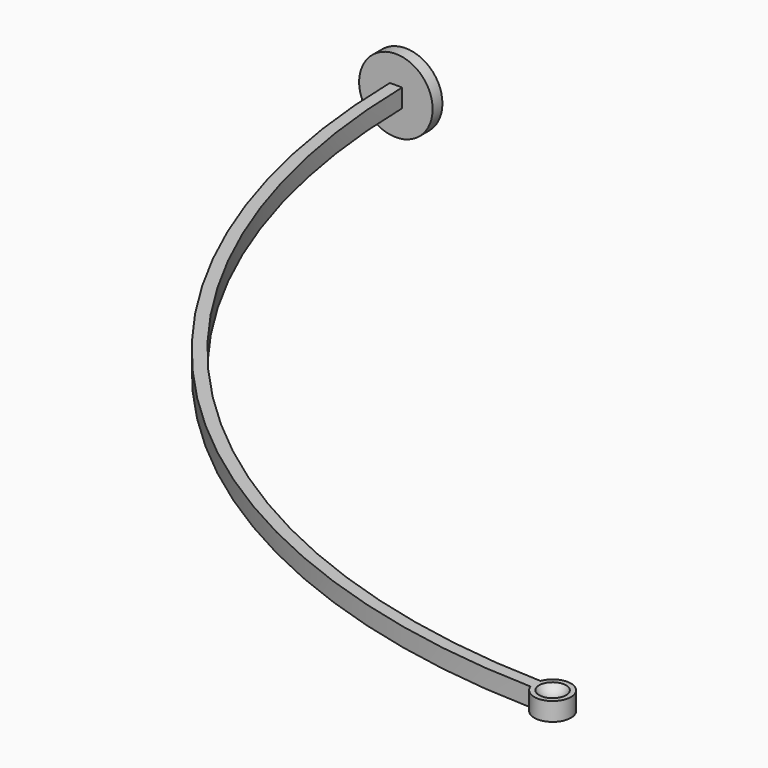
from build123d import *

# Parameters (mm, degrees)
PAD_DEPTH    = 0.375
SKETCH002_R  = 1.5
PAD001_DEPTH = 0.5


with BuildPart() as part:
    # Sketch → Pad (new body, symmetric)
    with BuildSketch(Plane.XY):
        with BuildLine():
            Line((-0.25, 0), (0, 0))
            Line((0, 0), (0.25, 0))
            ThreePointArc((0.25, 0), (8.71609, -20.785997), (29.295895, -29.741667))
            ThreePointArc((29.290002, -30.241667), (30.749948, -30.008839), (29.295895, -29.741667))
            ThreePointArc((-0.25, 0), (8.360454, -21.137467), (29.290002, -30.241667))
        make_face()
    extrude(amount=PAD_DEPTH, both=True)

    # Sketch002 → Pad001 (join)
    with BuildSketch(Plane.XZ):
        Circle(SKETCH002_R)
    extrude(amount=PAD001_DEPTH)

    # Sphere → Sphere (revolve, cut)
    with BuildSketch(Plane(origin=(30, -30, 0.6925), x_dir=(1, 0, 0), z_dir=(0, -1, 0))):
        with BuildLine():
            ThreePointArc((0, -0.635), (0.635, 0), (0, 0.635))
            Line((0, 0.635), (0, -0.635))
        make_face()
    revolve(axis=Axis((30, -30, 0.6925), (0, 0, 1)), mode=Mode.SUBTRACT)


solid = part.part
